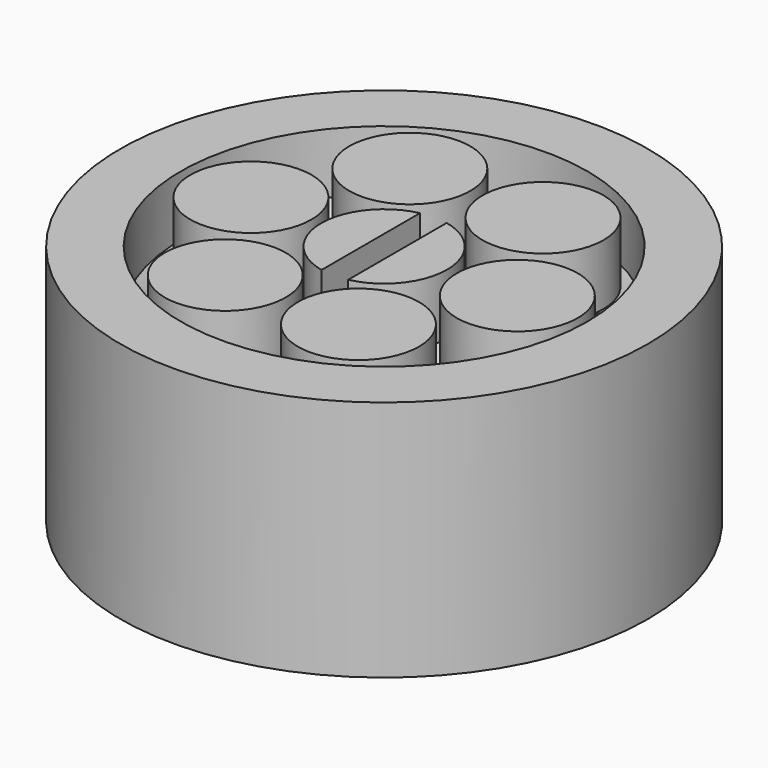
from build123d import *

# Parameters (mm, degrees)
F3_COUNT = 6
F5_DEPTH = 1.905


with BuildPart() as f1:
    # F0 (on Front) → F1 (revolve)
    with BuildSketch(Plane.XZ):
        with BuildLine():
            Line((3.81, 3.175), (3.81, 0))
            Line((3.81, 0), (6.985, 0))
            Line((6.985, 0), (6.985, 12.7))
            Line((6.985, 12.7), (3.81, 12.7))
            Line((3.81, 12.7), (3.81, 9.525))
            ThreePointArc((3.81, 9.525), (5.3975, 6.35), (3.81, 3.175))
        make_face()
    revolve(axis=Axis((6.985, 0, 6.35), (0, 0, 1)))


with BuildPart() as f2:
    # F0 (on Front) → F2 (revolve)
    with BuildSketch(Plane.XZ):
        with BuildLine():
            Line((0, 12.7), (0, 0))
            Line((0, 0), (3.302, 0))
            Line((3.302, 0), (3.302, 3.175))
            ThreePointArc((3.302, 3.175), (4.8895, 6.35), (3.302, 9.525))
            Line((3.302, 9.525), (3.302, 12.7))
            Line((3.302, 12.7), (0, 12.7))
        make_face()
    revolve(axis=Axis((0, 0, 6.35), (0, 0, 1)))

    # F4 (on face) → F5 (cut)
    with BuildSketch(Plane.XY.offset(12.7)):
        with BuildLine():
            Line((0.6985, -3.2272746629), (0.6985, 3.2272746629))
            ThreePointArc((0.6985, 3.2272746629), (0, 3.302), (-0.6985, 3.2272746629))
            Line((-0.6985, 3.2272746629), (-0.6985, -3.2272746629))
            ThreePointArc((-0.6985, -3.2272746629), (0, -3.302), (0.6985, -3.2272746629))
        make_face()
    extrude(amount=-F5_DEPTH, mode=Mode.SUBTRACT)


with BuildPart() as f2b:
    # F0 (on Front) → F2, piece 2 (revolve)
    with BuildSketch(Plane.XZ):
        with BuildLine():
            Line((10.668, 3.175), (10.668, 0))
            Line((10.668, 0), (13.843, 0))
            Line((13.843, 0), (13.843, 12.7))
            Line((13.843, 12.7), (10.668, 12.7))
            Line((10.668, 12.7), (10.668, 9.525))
            ThreePointArc((10.668, 9.525), (9.0805, 6.35), (10.668, 3.175))
        make_face()
    revolve(axis=Axis((0, 0, 6.35), (0, 0, 1)))


with BuildPart() as f3_1:
    # F3: instance of F1
    add(f1.part.rotate(Axis((0, 0, 6.35), (0, 0, 1)), 1 * 360 / F3_COUNT))


with BuildPart() as f3_2:
    # F3: instance of F1
    add(f1.part.rotate(Axis((0, 0, 6.35), (0, 0, 1)), 2 * 360 / F3_COUNT))


with BuildPart() as f3_3:
    # F3: instance of F1
    add(f1.part.rotate(Axis((0, 0, 6.35), (0, 0, 1)), 3 * 360 / F3_COUNT))


with BuildPart() as f3_4:
    # F3: instance of F1
    add(f1.part.rotate(Axis((0, 0, 6.35), (0, 0, 1)), 4 * 360 / F3_COUNT))


with BuildPart() as f3_5:
    # F3: instance of F1
    add(f1.part.rotate(Axis((0, 0, 6.35), (0, 0, 1)), 5 * 360 / F3_COUNT))


solid = Compound([f1.part, f2.part, f2b.part, f3_1.part, f3_2.part, f3_3.part, f3_4.part, f3_5.part])
